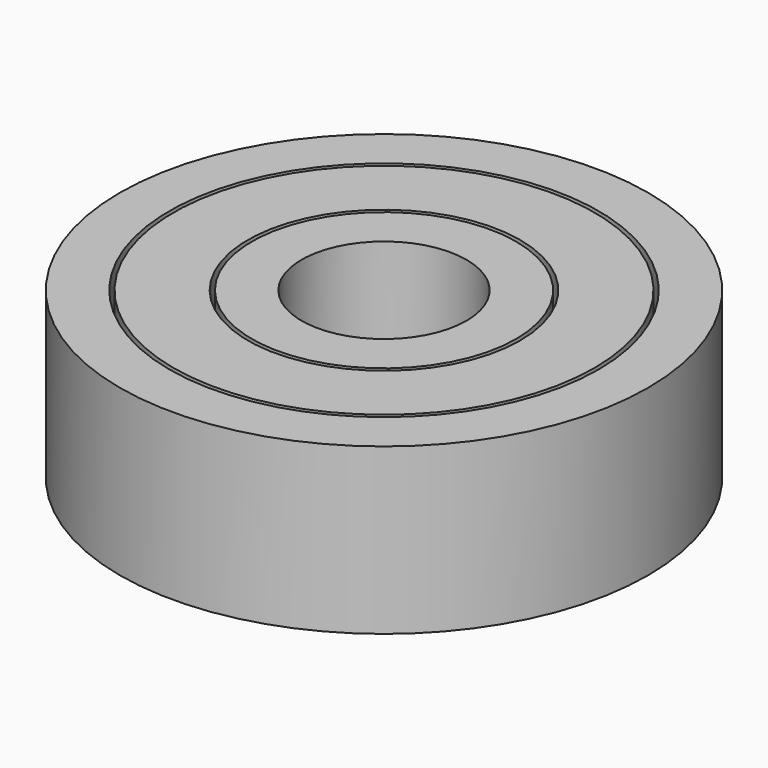
from build123d import *

# Parameters (mm, degrees)
F0_R     = 8
F0_R_2   = 6.5
F1_DEPTH = 2.5
F0_R_3   = 4
F0_R_4   = 2.5
F2_R     = 7
F2_R_2   = 3.5
F3_DEPTH = 0.5
F4_R     = 0.25
F4_2_R   = 0.25
F5_R     = 6.375
F5_R_2   = 4.125
F6_DEPTH = 5


with BuildPart() as f1:
    # F0 (on Top) → F1 (new body, symmetric)
    with BuildSketch(Plane.XY):
        Circle(F0_R)
        Circle(F0_R_2, mode=Mode.SUBTRACT)
    extrude(amount=F1_DEPTH, both=True)


with BuildPart() as f1b:
    # F0 (on Top) → F1, piece 2 (new body, symmetric)
    with BuildSketch(Plane.XY):
        Circle(F0_R_3)
        Circle(F0_R_4, mode=Mode.SUBTRACT)
    extrude(amount=F1_DEPTH, both=True)


with BuildPart() as f3_tool:
    # F2 (on Top) → F3 (new body, symmetric)
    with BuildSketch(Plane.XY):
        Circle(F2_R)
        Circle(F2_R_2, mode=Mode.SUBTRACT)
    extrude(amount=F3_DEPTH, both=True)


with BuildPart() as f1_1:
    add(f1.part)

    # F3: cut by f3_tool
    add(f3_tool.part, mode=Mode.SUBTRACT)

    # F4
    f4_edges = [f1_1.edges().sort_by_distance(p)[0] for p in [
        (-6.5, 0, 0.5),
        (-6.5, 0, -0.5),
    ]]
    fillet(f4_edges, radius=F4_R)


with BuildPart() as f1b_1:
    add(f1b.part)

    # F3: cut by f3_tool
    add(f3_tool.part, mode=Mode.SUBTRACT)

    # F4#2
    f4_2_edges = [f1b_1.edges().sort_by_distance(p)[0] for p in [
        (-4, 0, -0.5),
        (-4, 0, 0.5),
    ]]
    fillet(f4_2_edges, radius=F4_2_R)


with BuildPart() as f6:
    # F5 (on face) → F6 (new body)
    with BuildSketch(Plane(origin=(0, 0, -2.5), x_dir=(1, 0, 0), z_dir=(0, 0, -1))):
        Circle(F5_R)
        Circle(F5_R_2, mode=Mode.SUBTRACT)
    extrude(amount=-F6_DEPTH)


solid = Compound([f1_1.part, f1b_1.part, f6.part])
